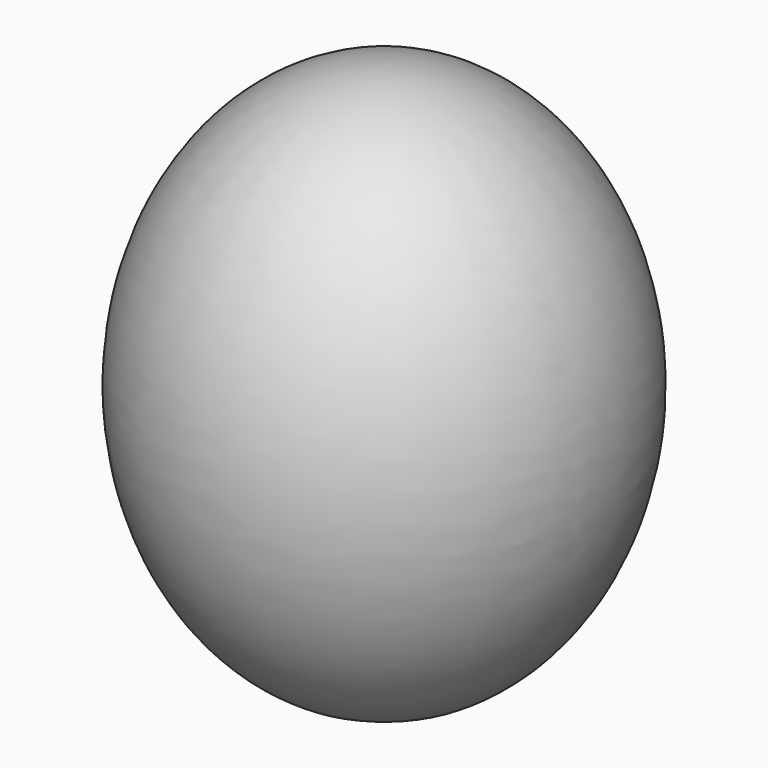
from build123d import *


with BuildPart() as f1:
    # F0 (on Front) → F1 (revolve)
    with BuildSketch(Plane.XZ):
        with BuildLine():
            Line((6.35, -6.35), (11.1125, -28.5501845372))
            add(Edge.make_bspline(
                [(11.1125, -28.5501845372), (29.2894094809, -17.4955872837), (24.7517650865, 7.1272063581), (20.2141206921, 31.75), (0, 31.75)],
                knots=[3.5944092483, 3.5944092483, 3.5944092483, 4.9387972778, 4.9387972778, 6.2831853072, 6.2831853072, 6.2831853072], degree=2, weights=[1, 0.782457328, 1, 0.782457328, 1]))
            Line((0, 31.75), (0, 0))
            Line((0, 0), (6.35, 0))
            Line((6.35, 0), (6.35, -6.35))
        make_face()
    revolve(axis=Axis((0, 0, 15.875), (0, 0, 1)))


solid = f1.part
